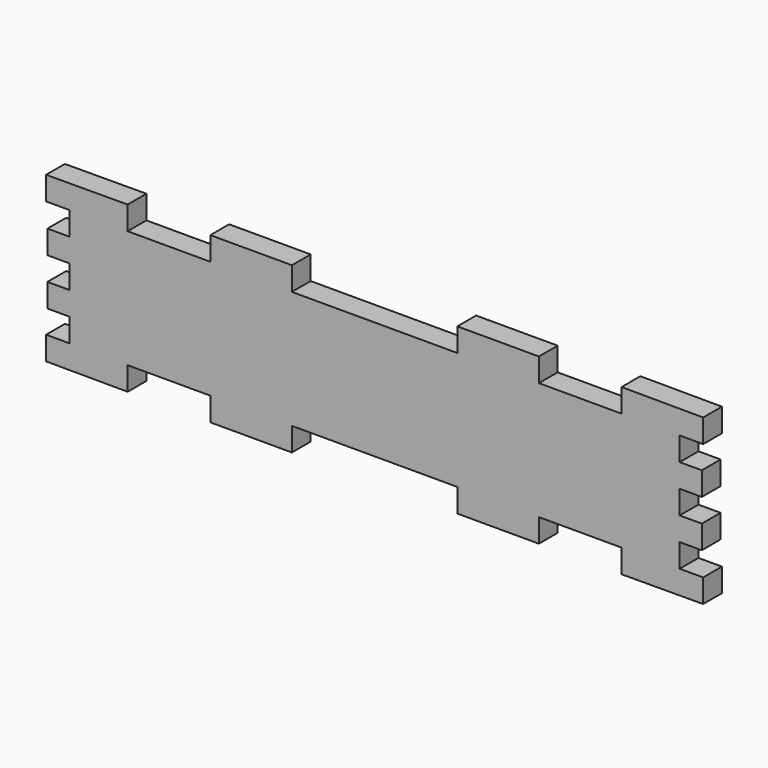
from build123d import *

# Parameters (mm, degrees)
F1_DEPTH = 10


with BuildPart() as f1:
    # F0 (on Front) → F1 (new body)
    with BuildSketch(Plane.XZ):
        Polygon((105.25, -35.124361), (140, -35), (140, -25), (130, -25), (130, -15), (139.429527, -15), (139.429527, -5), (130, -5), (130, 5), (139.429527, 5), (139.429527, 15), (130, 15), (130, 25), (140, 25), (140, 35), (105.25, 35.124361), (105.25, 25.124361), (70, 25.124361), (70, 35.124361), (35.25, 35.124361), (35.25, 25.124361), (0, 25.124361), (-35.25, 25.124361), (-35.25, 35.124361), (-70, 35.124361), (-70, 25.124361), (-105.25, 25.124361), (-105.25, 35.124361), (-140, 35), (-140, 25), (-130, 25), (-130, 15), (-139.429527, 15), (-139.429527, 5), (-130, 5), (-130, -5), (-139.429527, -5), (-139.429527, -15), (-130, -15), (-130, -25), (-140, -25), (-140, -35), (-105.25, -35.124361), (-105.25, -25.124361), (-70, -25.124361), (-70, -35.124361), (-35.25, -35.124361), (-35.25, -25.124361), (0, -25.124361), (35.25, -25.124361), (35.25, -35.124361), (70, -35.124361), (70, -25.124361), (105.25, -25.124361), align=None)
    extrude(amount=F1_DEPTH)


solid = f1.part
